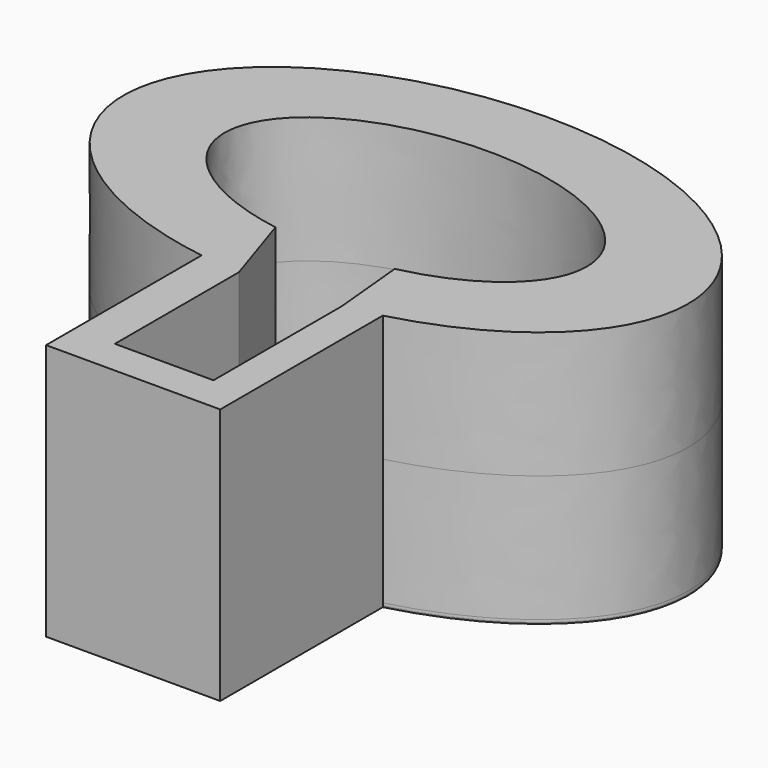
from build123d import *

# Parameters (mm, degrees)
F1_DEPTH = 25.4
F2_DEPTH = 25.4
F3_DEPTH = 25.4
F4_DEPTH = 25.4
F5_DEPTH = 0.508
F6_DEPTH = 0.508
F7_DEPTH = 0.762


with BuildPart() as f1:
    # F0 (on Top) → F1 (new body)
    with BuildSketch(Plane.XY):
        with BuildLine():
            Line((-30.2445069715, 14.8331388677), (-28.8034603, -0.2319170528))
            add(Edge.make_bspline(
                [(-28.8034603, -0.2319170528), (-25.2199291946, 0.378591868), (-21.7931978405, 1.2786120788)],
                knots=[4.9761933051, 4.9761933051, 4.9761933051, 5.1069561294, 5.1069561294, 5.1069561294], degree=2, weights=[1, 0.9978633968, 1]))
            add(Edge.make_bspline(
                [(-21.7931978405, 1.2786120788), (50.218043381, 20.1921380605), (-0.533998699, 57.555748767), (-51.286040779, 94.9193594735), (-91.961446539, 52.9364177725), (-132.6368522989, 10.9534760715), (-56.7705927415, -0.4886051868)],
                knots=[5.1069561294, 5.1069561294, 5.1069561294, 6.9915942242, 6.9915942242, 8.876232319, 8.876232319, 10.7608704138, 10.7608704138, 10.7608704138], degree=2, weights=[1, 0.5879136753, 1, 0.5879136753, 1, 0.5879136753, 1]))
            add(Edge.make_bspline(
                [(-56.7705927415, -0.4886051868), (-52.7416478226, -1.0962470479), (-48.6154593527, -1.3280297036)],
                knots=[4.4776851066, 4.4776851066, 4.4776851066, 4.6235650197, 4.6235650197, 4.6235650197], degree=2, weights=[1, 0.9973410605, 1]))
            Line((-48.6154593527, -1.3280297036), (-53.6777099396, 14.1968084661))
            add(Edge.make_bspline(
                [(-30.2445069715, 14.8331388677), (15.888419149, 25.2849758906), (-15.3001612609, 47.4439876299), (-46.4887416708, 69.6029993692), (-73.9040701092, 45.8525940461), (-101.3193985477, 22.102188723), (-53.6777099396, 14.1968084661)],
                knots=[1.9462507079, 1.9462507079, 1.9462507079, 3.821814465, 3.821814465, 5.697378222, 5.697378222, 7.5729419791, 7.5729419791, 7.5729419791], degree=2, weights=[1, 0.5915778346, 1, 0.5915778346, 1, 0.5915778346, 1]))
        make_face()
        with BuildLine():
            add(Edge.make_bspline(
                [(-28.8034603, -0.2319170528), (-25.2199291946, 0.378591868), (-21.7931978405, 1.2786120788)],
                knots=[4.9761933051, 4.9761933051, 4.9761933051, 5.1069561294, 5.1069561294, 5.1069561294], degree=2, weights=[1, 0.9978633968, 1]))
            Line((-28.8034603, -0.2319170528), (-28.8034603, -32.4611999094))
            Line((-28.8034603, -32.4611999094), (-48.6154593527, -32.4611999094))
            Line((-48.6154593527, -32.4611999094), (-48.6154593527, -1.3280297036))
            add(Edge.make_bspline(
                [(-56.7705927415, -0.4886051868), (-52.7416478226, -1.0962470479), (-48.6154593527, -1.3280297036)],
                knots=[4.4776851066, 4.4776851066, 4.4776851066, 4.6235650197, 4.6235650197, 4.6235650197], degree=2, weights=[1, 0.9973410605, 1]))
            Line((-56.7705927415, -0.4886051868), (-56.7705927415, -39.5372596303))
            Line((-56.7705927415, -39.5372596303), (-21.7931978405, -39.5372596303))
            Line((-21.7931978405, -39.5372596303), (-21.7931978405, 1.2786120788))
        make_face()
    extrude(amount=F1_DEPTH)

    # F0 (on Top) → F2 (join)
    with BuildSketch(Plane.XY):
        with BuildLine():
            Line((-30.2445069715, 14.8331388677), (-28.8034603, -0.2319170528))
            add(Edge.make_bspline(
                [(-28.8034603, -0.2319170528), (-25.2199291946, 0.378591868), (-21.7931978405, 1.2786120788)],
                knots=[4.9761933051, 4.9761933051, 4.9761933051, 5.1069561294, 5.1069561294, 5.1069561294], degree=2, weights=[1, 0.9978633968, 1]))
            add(Edge.make_bspline(
                [(-21.7931978405, 1.2786120788), (50.218043381, 20.1921380605), (-0.533998699, 57.555748767), (-51.286040779, 94.9193594735), (-91.961446539, 52.9364177725), (-132.6368522989, 10.9534760715), (-56.7705927415, -0.4886051868)],
                knots=[5.1069561294, 5.1069561294, 5.1069561294, 6.9915942242, 6.9915942242, 8.876232319, 8.876232319, 10.7608704138, 10.7608704138, 10.7608704138], degree=2, weights=[1, 0.5879136753, 1, 0.5879136753, 1, 0.5879136753, 1]))
            add(Edge.make_bspline(
                [(-56.7705927415, -0.4886051868), (-52.7416478226, -1.0962470479), (-48.6154593527, -1.3280297036)],
                knots=[4.4776851066, 4.4776851066, 4.4776851066, 4.6235650197, 4.6235650197, 4.6235650197], degree=2, weights=[1, 0.9973410605, 1]))
            Line((-48.6154593527, -1.3280297036), (-53.6777099396, 14.1968084661))
            add(Edge.make_bspline(
                [(-30.2445069715, 14.8331388677), (15.888419149, 25.2849758906), (-15.3001612609, 47.4439876299), (-46.4887416708, 69.6029993692), (-73.9040701092, 45.8525940461), (-101.3193985477, 22.102188723), (-53.6777099396, 14.1968084661)],
                knots=[1.9462507079, 1.9462507079, 1.9462507079, 3.821814465, 3.821814465, 5.697378222, 5.697378222, 7.5729419791, 7.5729419791, 7.5729419791], degree=2, weights=[1, 0.5915778346, 1, 0.5915778346, 1, 0.5915778346, 1]))
        make_face()
        with BuildLine():
            add(Edge.make_bspline(
                [(-28.8034603, -0.2319170528), (-25.2199291946, 0.378591868), (-21.7931978405, 1.2786120788)],
                knots=[4.9761933051, 4.9761933051, 4.9761933051, 5.1069561294, 5.1069561294, 5.1069561294], degree=2, weights=[1, 0.9978633968, 1]))
            Line((-28.8034603, -0.2319170528), (-28.8034603, -32.4611999094))
            Line((-28.8034603, -32.4611999094), (-48.6154593527, -32.4611999094))
            Line((-48.6154593527, -32.4611999094), (-48.6154593527, -1.3280297036))
            add(Edge.make_bspline(
                [(-56.7705927415, -0.4886051868), (-52.7416478226, -1.0962470479), (-48.6154593527, -1.3280297036)],
                knots=[4.4776851066, 4.4776851066, 4.4776851066, 4.6235650197, 4.6235650197, 4.6235650197], degree=2, weights=[1, 0.9973410605, 1]))
            Line((-56.7705927415, -0.4886051868), (-56.7705927415, -39.5372596303))
            Line((-56.7705927415, -39.5372596303), (-21.7931978405, -39.5372596303))
            Line((-21.7931978405, -39.5372596303), (-21.7931978405, 1.2786120788))
        make_face()
    extrude(amount=F2_DEPTH)

    # F0 (on Top) + F1_face (on face) → F3 (join)
    with BuildSketch(Plane.XY):
        with BuildLine():
            Line((-30.2445069715, 14.8331388677), (-28.8034603, -0.2319170528))
            add(Edge.make_bspline(
                [(-28.8034603, -0.2319170528), (-25.2199291946, 0.378591868), (-21.7931978405, 1.2786120788)],
                knots=[4.9761933051, 4.9761933051, 4.9761933051, 5.1069561294, 5.1069561294, 5.1069561294], degree=2, weights=[1, 0.9978633968, 1]))
            add(Edge.make_bspline(
                [(-21.7931978405, 1.2786120788), (50.218043381, 20.1921380605), (-0.533998699, 57.555748767), (-51.286040779, 94.9193594735), (-91.961446539, 52.9364177725), (-132.6368522989, 10.9534760715), (-56.7705927415, -0.4886051868)],
                knots=[5.1069561294, 5.1069561294, 5.1069561294, 6.9915942242, 6.9915942242, 8.876232319, 8.876232319, 10.7608704138, 10.7608704138, 10.7608704138], degree=2, weights=[1, 0.5879136753, 1, 0.5879136753, 1, 0.5879136753, 1]))
            add(Edge.make_bspline(
                [(-56.7705927415, -0.4886051868), (-52.7416478226, -1.0962470479), (-48.6154593527, -1.3280297036)],
                knots=[4.4776851066, 4.4776851066, 4.4776851066, 4.6235650197, 4.6235650197, 4.6235650197], degree=2, weights=[1, 0.9973410605, 1]))
            Line((-48.6154593527, -1.3280297036), (-53.6777099396, 14.1968084661))
            add(Edge.make_bspline(
                [(-30.2445069715, 14.8331388677), (15.888419149, 25.2849758906), (-15.3001612609, 47.4439876299), (-46.4887416708, 69.6029993692), (-73.9040701092, 45.8525940461), (-101.3193985477, 22.102188723), (-53.6777099396, 14.1968084661)],
                knots=[1.9462507079, 1.9462507079, 1.9462507079, 3.821814465, 3.821814465, 5.697378222, 5.697378222, 7.5729419791, 7.5729419791, 7.5729419791], degree=2, weights=[1, 0.5915778346, 1, 0.5915778346, 1, 0.5915778346, 1]))
        make_face()
        with BuildLine():
            add(Edge.make_bspline(
                [(-28.8034603, -0.2319170528), (-25.2199291946, 0.378591868), (-21.7931978405, 1.2786120788)],
                knots=[4.9761933051, 4.9761933051, 4.9761933051, 5.1069561294, 5.1069561294, 5.1069561294], degree=2, weights=[1, 0.9978633968, 1]))
            Line((-28.8034603, -0.2319170528), (-28.8034603, -32.4611999094))
            Line((-28.8034603, -32.4611999094), (-48.6154593527, -32.4611999094))
            Line((-48.6154593527, -32.4611999094), (-48.6154593527, -1.3280297036))
            add(Edge.make_bspline(
                [(-56.7705927415, -0.4886051868), (-52.7416478226, -1.0962470479), (-48.6154593527, -1.3280297036)],
                knots=[4.4776851066, 4.4776851066, 4.4776851066, 4.6235650197, 4.6235650197, 4.6235650197], degree=2, weights=[1, 0.9973410605, 1]))
            Line((-56.7705927415, -0.4886051868), (-56.7705927415, -39.5372596303))
            Line((-56.7705927415, -39.5372596303), (-21.7931978405, -39.5372596303))
            Line((-21.7931978405, -39.5372596303), (-21.7931978405, 1.2786120788))
        make_face()
    with BuildSketch(Plane(origin=(-43.1579317706, 26.845185468, 25.4), x_dir=(1, 0, 0), z_dir=(0, 0, 1))):
        with BuildLine():
            add(Edge.make_bspline(
                [(21.3647339301, -25.5665733892), (93.3759751515, -6.6530474075), (42.6239330716, 30.710563299), (-8.1281090084, 68.0741740055), (-48.8035147684, 26.0912323045), (-89.4789205284, -15.8917093964), (-13.6126609709, -27.3337906548)],
                knots=[5.1069561294, 5.1069561294, 5.1069561294, 6.9915942242, 6.9915942242, 8.876232319, 8.876232319, 10.7608704138, 10.7608704138, 10.7608704138], degree=2, weights=[1, 0.5879136753, 1, 0.5879136753, 1, 0.5879136753, 1]))
            Line((-13.6126609709, -27.3337906548), (-13.6126609709, -66.3824450983))
            Line((-13.6126609709, -66.3824450983), (21.3647339301, -66.3824450983))
            Line((21.3647339301, -66.3824450983), (21.3647339301, -25.5665733892))
        make_face()
        with BuildLine():
            add(Edge.make_bspline(
                [(12.913424799, -12.0120466003), (59.0463509195, -1.5602095774), (27.8577705097, 20.5988021619), (-3.3308099002, 42.7578139013), (-30.7461383387, 19.0074085781), (-58.1614667771, -4.742996745), (-10.5197781691, -12.6483770018)],
                knots=[1.9462507079, 1.9462507079, 1.9462507079, 3.821814465, 3.821814465, 5.697378222, 5.697378222, 7.5729419791, 7.5729419791, 7.5729419791], degree=2, weights=[1, 0.5915778346, 1, 0.5915778346, 1, 0.5915778346, 1]))
            Line((12.913424799, -12.0120466003), (14.3544714706, -27.0771025208))
            Line((14.3544714706, -27.0771025208), (14.3544714706, -59.3063853774))
            Line((14.3544714706, -59.3063853774), (-5.4575275822, -59.3063853774))
            Line((-5.4575275822, -59.3063853774), (-5.4575275822, -28.1732151716))
            Line((-5.4575275822, -28.1732151716), (-10.5197781691, -12.6483770018))
        make_face(mode=Mode.SUBTRACT)
    extrude(amount=F3_DEPTH)

    # F0 (on Top) → F4 (join)
    with BuildSketch(Plane.XY):
        with BuildLine():
            Line((-30.2445069715, 14.8331388677), (-28.8034603, -0.2319170528))
            add(Edge.make_bspline(
                [(-28.8034603, -0.2319170528), (-25.2199291946, 0.378591868), (-21.7931978405, 1.2786120788)],
                knots=[4.9761933051, 4.9761933051, 4.9761933051, 5.1069561294, 5.1069561294, 5.1069561294], degree=2, weights=[1, 0.9978633968, 1]))
            add(Edge.make_bspline(
                [(-21.7931978405, 1.2786120788), (50.218043381, 20.1921380605), (-0.533998699, 57.555748767), (-51.286040779, 94.9193594735), (-91.961446539, 52.9364177725), (-132.6368522989, 10.9534760715), (-56.7705927415, -0.4886051868)],
                knots=[5.1069561294, 5.1069561294, 5.1069561294, 6.9915942242, 6.9915942242, 8.876232319, 8.876232319, 10.7608704138, 10.7608704138, 10.7608704138], degree=2, weights=[1, 0.5879136753, 1, 0.5879136753, 1, 0.5879136753, 1]))
            add(Edge.make_bspline(
                [(-56.7705927415, -0.4886051868), (-52.7416478226, -1.0962470479), (-48.6154593527, -1.3280297036)],
                knots=[4.4776851066, 4.4776851066, 4.4776851066, 4.6235650197, 4.6235650197, 4.6235650197], degree=2, weights=[1, 0.9973410605, 1]))
            Line((-48.6154593527, -1.3280297036), (-53.6777099396, 14.1968084661))
            add(Edge.make_bspline(
                [(-30.2445069715, 14.8331388677), (15.888419149, 25.2849758906), (-15.3001612609, 47.4439876299), (-46.4887416708, 69.6029993692), (-73.9040701092, 45.8525940461), (-101.3193985477, 22.102188723), (-53.6777099396, 14.1968084661)],
                knots=[1.9462507079, 1.9462507079, 1.9462507079, 3.821814465, 3.821814465, 5.697378222, 5.697378222, 7.5729419791, 7.5729419791, 7.5729419791], degree=2, weights=[1, 0.5915778346, 1, 0.5915778346, 1, 0.5915778346, 1]))
        make_face()
        with BuildLine():
            add(Edge.make_bspline(
                [(-28.8034603, -0.2319170528), (-25.2199291946, 0.378591868), (-21.7931978405, 1.2786120788)],
                knots=[4.9761933051, 4.9761933051, 4.9761933051, 5.1069561294, 5.1069561294, 5.1069561294], degree=2, weights=[1, 0.9978633968, 1]))
            Line((-28.8034603, -0.2319170528), (-28.8034603, -32.4611999094))
            Line((-28.8034603, -32.4611999094), (-48.6154593527, -32.4611999094))
            Line((-48.6154593527, -32.4611999094), (-48.6154593527, -1.3280297036))
            add(Edge.make_bspline(
                [(-56.7705927415, -0.4886051868), (-52.7416478226, -1.0962470479), (-48.6154593527, -1.3280297036)],
                knots=[4.4776851066, 4.4776851066, 4.4776851066, 4.6235650197, 4.6235650197, 4.6235650197], degree=2, weights=[1, 0.9973410605, 1]))
            Line((-56.7705927415, -0.4886051868), (-56.7705927415, -39.5372596303))
            Line((-56.7705927415, -39.5372596303), (-21.7931978405, -39.5372596303))
            Line((-21.7931978405, -39.5372596303), (-21.7931978405, 1.2786120788))
        make_face()
    extrude(amount=F4_DEPTH)

    # F0 (on Top) → F5 (join)
    with BuildSketch(Plane.XY):
        with BuildLine():
            Line((-30.2445069715, 14.8331388677), (-28.8034603, -0.2319170528))
            add(Edge.make_bspline(
                [(-28.8034603, -0.2319170528), (-25.2199291946, 0.378591868), (-21.7931978405, 1.2786120788)],
                knots=[4.9761933051, 4.9761933051, 4.9761933051, 5.1069561294, 5.1069561294, 5.1069561294], degree=2, weights=[1, 0.9978633968, 1]))
            add(Edge.make_bspline(
                [(-21.7931978405, 1.2786120788), (50.218043381, 20.1921380605), (-0.533998699, 57.555748767), (-51.286040779, 94.9193594735), (-91.961446539, 52.9364177725), (-132.6368522989, 10.9534760715), (-56.7705927415, -0.4886051868)],
                knots=[5.1069561294, 5.1069561294, 5.1069561294, 6.9915942242, 6.9915942242, 8.876232319, 8.876232319, 10.7608704138, 10.7608704138, 10.7608704138], degree=2, weights=[1, 0.5879136753, 1, 0.5879136753, 1, 0.5879136753, 1]))
            add(Edge.make_bspline(
                [(-56.7705927415, -0.4886051868), (-52.7416478226, -1.0962470479), (-48.6154593527, -1.3280297036)],
                knots=[4.4776851066, 4.4776851066, 4.4776851066, 4.6235650197, 4.6235650197, 4.6235650197], degree=2, weights=[1, 0.9973410605, 1]))
            Line((-48.6154593527, -1.3280297036), (-53.6777099396, 14.1968084661))
            add(Edge.make_bspline(
                [(-30.2445069715, 14.8331388677), (15.888419149, 25.2849758906), (-15.3001612609, 47.4439876299), (-46.4887416708, 69.6029993692), (-73.9040701092, 45.8525940461), (-101.3193985477, 22.102188723), (-53.6777099396, 14.1968084661)],
                knots=[1.9462507079, 1.9462507079, 1.9462507079, 3.821814465, 3.821814465, 5.697378222, 5.697378222, 7.5729419791, 7.5729419791, 7.5729419791], degree=2, weights=[1, 0.5915778346, 1, 0.5915778346, 1, 0.5915778346, 1]))
        make_face()
        with BuildLine():
            add(Edge.make_bspline(
                [(-28.8034603, -0.2319170528), (-25.2199291946, 0.378591868), (-21.7931978405, 1.2786120788)],
                knots=[4.9761933051, 4.9761933051, 4.9761933051, 5.1069561294, 5.1069561294, 5.1069561294], degree=2, weights=[1, 0.9978633968, 1]))
            Line((-28.8034603, -0.2319170528), (-28.8034603, -32.4611999094))
            Line((-28.8034603, -32.4611999094), (-48.6154593527, -32.4611999094))
            Line((-48.6154593527, -32.4611999094), (-48.6154593527, -1.3280297036))
            add(Edge.make_bspline(
                [(-56.7705927415, -0.4886051868), (-52.7416478226, -1.0962470479), (-48.6154593527, -1.3280297036)],
                knots=[4.4776851066, 4.4776851066, 4.4776851066, 4.6235650197, 4.6235650197, 4.6235650197], degree=2, weights=[1, 0.9973410605, 1]))
            Line((-56.7705927415, -0.4886051868), (-56.7705927415, -39.5372596303))
            Line((-56.7705927415, -39.5372596303), (-21.7931978405, -39.5372596303))
            Line((-21.7931978405, -39.5372596303), (-21.7931978405, 1.2786120788))
        make_face()
    extrude(amount=-F5_DEPTH)

    # F0 (on Top) → F6 (join)
    with BuildSketch(Plane.XY):
        with BuildLine():
            Line((-30.2445069715, 14.8331388677), (-28.8034603, -0.2319170528))
            add(Edge.make_bspline(
                [(-28.8034603, -0.2319170528), (-25.2199291946, 0.378591868), (-21.7931978405, 1.2786120788)],
                knots=[4.9761933051, 4.9761933051, 4.9761933051, 5.1069561294, 5.1069561294, 5.1069561294], degree=2, weights=[1, 0.9978633968, 1]))
            add(Edge.make_bspline(
                [(-21.7931978405, 1.2786120788), (50.218043381, 20.1921380605), (-0.533998699, 57.555748767), (-51.286040779, 94.9193594735), (-91.961446539, 52.9364177725), (-132.6368522989, 10.9534760715), (-56.7705927415, -0.4886051868)],
                knots=[5.1069561294, 5.1069561294, 5.1069561294, 6.9915942242, 6.9915942242, 8.876232319, 8.876232319, 10.7608704138, 10.7608704138, 10.7608704138], degree=2, weights=[1, 0.5879136753, 1, 0.5879136753, 1, 0.5879136753, 1]))
            add(Edge.make_bspline(
                [(-56.7705927415, -0.4886051868), (-52.7416478226, -1.0962470479), (-48.6154593527, -1.3280297036)],
                knots=[4.4776851066, 4.4776851066, 4.4776851066, 4.6235650197, 4.6235650197, 4.6235650197], degree=2, weights=[1, 0.9973410605, 1]))
            Line((-48.6154593527, -1.3280297036), (-53.6777099396, 14.1968084661))
            add(Edge.make_bspline(
                [(-30.2445069715, 14.8331388677), (15.888419149, 25.2849758906), (-15.3001612609, 47.4439876299), (-46.4887416708, 69.6029993692), (-73.9040701092, 45.8525940461), (-101.3193985477, 22.102188723), (-53.6777099396, 14.1968084661)],
                knots=[1.9462507079, 1.9462507079, 1.9462507079, 3.821814465, 3.821814465, 5.697378222, 5.697378222, 7.5729419791, 7.5729419791, 7.5729419791], degree=2, weights=[1, 0.5915778346, 1, 0.5915778346, 1, 0.5915778346, 1]))
        make_face()
        with BuildLine():
            add(Edge.make_bspline(
                [(-28.8034603, -0.2319170528), (-25.2199291946, 0.378591868), (-21.7931978405, 1.2786120788)],
                knots=[4.9761933051, 4.9761933051, 4.9761933051, 5.1069561294, 5.1069561294, 5.1069561294], degree=2, weights=[1, 0.9978633968, 1]))
            Line((-28.8034603, -0.2319170528), (-28.8034603, -32.4611999094))
            Line((-28.8034603, -32.4611999094), (-48.6154593527, -32.4611999094))
            Line((-48.6154593527, -32.4611999094), (-48.6154593527, -1.3280297036))
            add(Edge.make_bspline(
                [(-56.7705927415, -0.4886051868), (-52.7416478226, -1.0962470479), (-48.6154593527, -1.3280297036)],
                knots=[4.4776851066, 4.4776851066, 4.4776851066, 4.6235650197, 4.6235650197, 4.6235650197], degree=2, weights=[1, 0.9973410605, 1]))
            Line((-56.7705927415, -0.4886051868), (-56.7705927415, -39.5372596303))
            Line((-56.7705927415, -39.5372596303), (-21.7931978405, -39.5372596303))
            Line((-21.7931978405, -39.5372596303), (-21.7931978405, 1.2786120788))
        make_face()
    extrude(amount=F6_DEPTH)

    # F0 (on Top) → F7 (join)
    with BuildSketch(Plane.XY):
        with BuildLine():
            Line((-30.2445069715, 14.8331388677), (-28.8034603, -0.2319170528))
            add(Edge.make_bspline(
                [(-28.8034603, -0.2319170528), (-25.2199291946, 0.378591868), (-21.7931978405, 1.2786120788)],
                knots=[4.9761933051, 4.9761933051, 4.9761933051, 5.1069561294, 5.1069561294, 5.1069561294], degree=2, weights=[1, 0.9978633968, 1]))
            add(Edge.make_bspline(
                [(-21.7931978405, 1.2786120788), (50.218043381, 20.1921380605), (-0.533998699, 57.555748767), (-51.286040779, 94.9193594735), (-91.961446539, 52.9364177725), (-132.6368522989, 10.9534760715), (-56.7705927415, -0.4886051868)],
                knots=[5.1069561294, 5.1069561294, 5.1069561294, 6.9915942242, 6.9915942242, 8.876232319, 8.876232319, 10.7608704138, 10.7608704138, 10.7608704138], degree=2, weights=[1, 0.5879136753, 1, 0.5879136753, 1, 0.5879136753, 1]))
            add(Edge.make_bspline(
                [(-56.7705927415, -0.4886051868), (-52.7416478226, -1.0962470479), (-48.6154593527, -1.3280297036)],
                knots=[4.4776851066, 4.4776851066, 4.4776851066, 4.6235650197, 4.6235650197, 4.6235650197], degree=2, weights=[1, 0.9973410605, 1]))
            Line((-48.6154593527, -1.3280297036), (-53.6777099396, 14.1968084661))
            add(Edge.make_bspline(
                [(-30.2445069715, 14.8331388677), (15.888419149, 25.2849758906), (-15.3001612609, 47.4439876299), (-46.4887416708, 69.6029993692), (-73.9040701092, 45.8525940461), (-101.3193985477, 22.102188723), (-53.6777099396, 14.1968084661)],
                knots=[1.9462507079, 1.9462507079, 1.9462507079, 3.821814465, 3.821814465, 5.697378222, 5.697378222, 7.5729419791, 7.5729419791, 7.5729419791], degree=2, weights=[1, 0.5915778346, 1, 0.5915778346, 1, 0.5915778346, 1]))
        make_face()
        with BuildLine():
            add(Edge.make_bspline(
                [(-28.8034603, -0.2319170528), (-25.2199291946, 0.378591868), (-21.7931978405, 1.2786120788)],
                knots=[4.9761933051, 4.9761933051, 4.9761933051, 5.1069561294, 5.1069561294, 5.1069561294], degree=2, weights=[1, 0.9978633968, 1]))
            Line((-28.8034603, -0.2319170528), (-28.8034603, -32.4611999094))
            Line((-28.8034603, -32.4611999094), (-48.6154593527, -32.4611999094))
            Line((-48.6154593527, -32.4611999094), (-48.6154593527, -1.3280297036))
            add(Edge.make_bspline(
                [(-56.7705927415, -0.4886051868), (-52.7416478226, -1.0962470479), (-48.6154593527, -1.3280297036)],
                knots=[4.4776851066, 4.4776851066, 4.4776851066, 4.6235650197, 4.6235650197, 4.6235650197], degree=2, weights=[1, 0.9973410605, 1]))
            Line((-56.7705927415, -0.4886051868), (-56.7705927415, -39.5372596303))
            Line((-56.7705927415, -39.5372596303), (-21.7931978405, -39.5372596303))
            Line((-21.7931978405, -39.5372596303), (-21.7931978405, 1.2786120788))
        make_face()
    extrude(amount=-F7_DEPTH)


solid = f1.part
